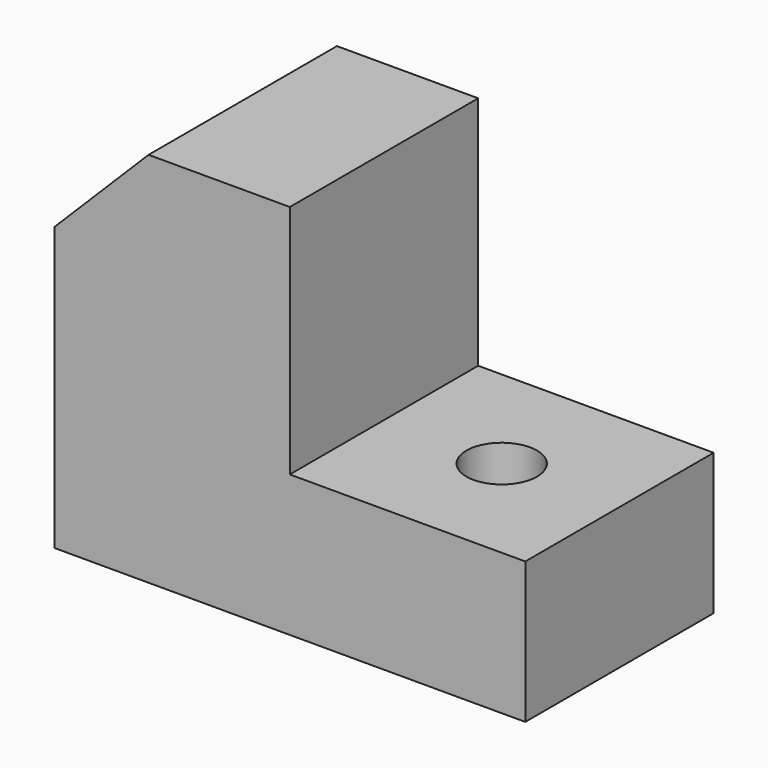
from build123d import *

# Parameters (mm, degrees)
F0_W     = 100
F0_H     = 50
F1_DEPTH = 80
F2_W     = 50
F2_H     = 50
F3_DEPTH = 102
F5_DEPTH = 92
F6_R     = 7.5
F7_DEPTH = 64.2


with BuildPart() as f1:
    # F0 (on Top) → F1 (new body)
    with BuildSketch(Plane.XY):
        with Locations((50, 25)):
            Rectangle(F0_W, F0_H)
    extrude(amount=F1_DEPTH)

    # F2 (on face) → F3 (cut)
    with BuildSketch(Plane.XZ):
        with Locations((75, 55)):
            Rectangle(F2_W, F2_H)
    extrude(amount=-F3_DEPTH, mode=Mode.SUBTRACT)

    # F4 (on face) → F5 (cut)
    with BuildSketch(Plane.XZ):
        Polygon((0, 60), (20, 80), (0, 80), align=None)
    extrude(amount=-F5_DEPTH, mode=Mode.SUBTRACT)

    # F6 (on face) → F7 (cut)
    with BuildSketch(Plane.XY.offset(30)):
        with Locations((75, 25)):
            Circle(F6_R)
    extrude(amount=-F7_DEPTH, mode=Mode.SUBTRACT)


solid = f1.part
